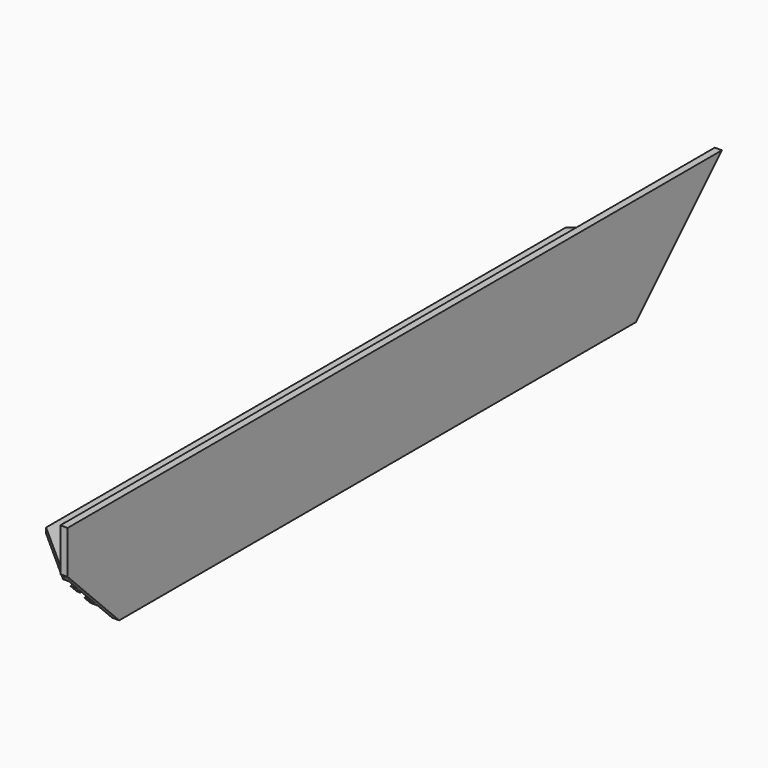
from build123d import *

# Parameters (mm, degrees)
F1_DEPTH = 304.8
F3_DEPTH = 25.4
F5_DEPTH = 25.4
F7_DEPTH = 25.4
F9_DEPTH = 25.4


with BuildPart() as f1:
    # F0 (on Front) → F1 (new body)
    with BuildSketch(Plane.XZ):
        Polygon((-2.54, 0), (0, 0), (0, 38.1), (-2.54, 38.1), (-2.54, 20.955), (-25.4, 20.955), (-25.4, 19.05), (-2.54, 19.05), (-2.54, 15.24), (-5.08, 15.24), (-5.08, 12.446), (-3.81, 12.446), (-3.81, 13.97), (-2.54, 13.97), (-2.54, 7.62), (-3.81, 7.62), (-3.81, 9.144), (-5.08, 9.144), (-5.08, 6.35), (-2.54, 6.35), align=None)
    extrude(amount=F1_DEPTH)

    # F2 (on face) → F3 (cut)
    with BuildSketch(Plane.YZ):
        Polygon((-266.7, 0), (-304.8, 38.1), (-304.8, 0), align=None)
        Polygon((0, 0), (0, 38.1), (-38.1, 0), align=None)
    extrude(amount=-F3_DEPTH, mode=Mode.SUBTRACT)

    # F4 (on face) → F5 (cut)
    with BuildSketch(Plane.XY.offset(20.955)):
        Polygon((-25.4, -37.465), (-2.54, -17.145), (-25.4, -17.145), align=None)
        Polygon((-25.4, -287.655), (-2.54, -287.655), (-25.4, -267.335), align=None)
    extrude(amount=-F5_DEPTH, mode=Mode.SUBTRACT)

    # F6 (on face) → F7 (cut)
    with BuildSketch(Plane.XY.offset(20.955)):
        with BuildLine():
            Line((-13.97, -39.794183), (-20.32, -39.794183))
            ThreePointArc((-20.32, -39.794183), (-23.1775, -42.651683), (-20.32, -45.509183))
            Line((-20.32, -45.509183), (-13.97, -45.509183))
            ThreePointArc((-13.97, -45.509183), (-11.1125, -42.651683), (-13.97, -39.794183))
        make_face()
        with BuildLine():
            Line((-20.32, -265.005817), (-13.97, -265.005817))
            ThreePointArc((-13.97, -265.005817), (-11.1125, -262.148317), (-13.97, -259.290817))
            Line((-13.97, -259.290817), (-20.32, -259.290817))
            ThreePointArc((-20.32, -259.290817), (-23.1775, -262.148317), (-20.32, -265.005817))
        make_face()
    extrude(amount=-F7_DEPTH, mode=Mode.SUBTRACT)

    # F8 (on face) → F9 (cut)
    with BuildSketch(Plane.YZ):
        Polygon((-289.56, 22.86), (-289.56, 38.1), (-304.8, 38.1), align=None)
    extrude(amount=-F9_DEPTH, mode=Mode.SUBTRACT)


solid = f1.part
